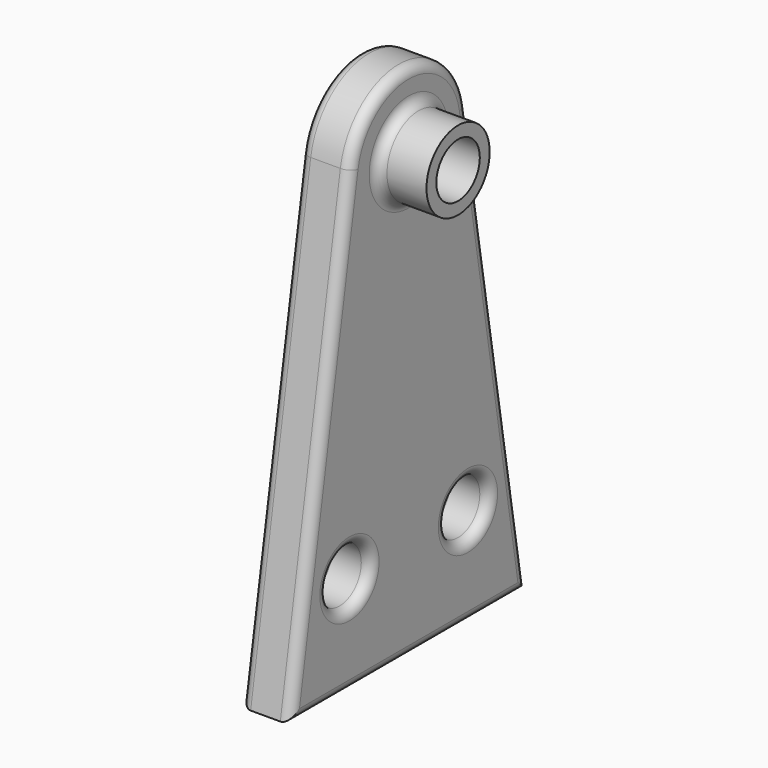
from build123d import *

# Parameters (mm, degrees)
SKETCH_R      = 2.75
PAD_DEPTH     = 5
SKETCH001_R   = 4
SKETCH001_R_2 = 2.75
PAD001_DEPTH  = 5
FILLET_R      = 1
FILLET001_R   = 1


with BuildPart() as part:
    # Sketch → Pad (new body)
    with BuildSketch(Plane.YZ):
        with BuildLine():
            Line((-15, 0), (15, 0))
            Line((15, 0), (7.400623, 46.216874))
            ThreePointArc((7.400623, 46.216874), (0, 52.5), (-7.400623, 46.216874))
            Line((-15, 0), (-7.400623, 46.216874))
        make_face()
        with Locations((0, 45)):
            Circle(SKETCH_R, mode=Mode.SUBTRACT)
        with Locations((-7.5, 10)):
            Circle(SKETCH_R, mode=Mode.SUBTRACT)
        with Locations((7.5, 10)):
            Circle(SKETCH_R, mode=Mode.SUBTRACT)
    extrude(amount=PAD_DEPTH)

    # Sketch001 (on Face9 of Pad) → Pad001 (join)
    with BuildSketch(Plane.YZ.offset(5)):
        with Locations((0, 45)):
            Circle(SKETCH001_R)
        with Locations((0, 45)):
            Circle(SKETCH001_R_2, mode=Mode.SUBTRACT)
    extrude(amount=PAD001_DEPTH)

    # Fillet
    fillet_edges = [part.edges().sort_by_distance(p)[0] for p in [
        (0, 0, 0),
        (0, 11.200311, 23.108437),
        (0, 0, 52.5),
        (0, -11.200311, 23.108437),
        (0, -2.75, 45),
        (0, -10.25, 10),
        (0, 4.75, 10),
    ]]
    fillet(fillet_edges, radius=FILLET_R)

    # Fillet001
    fillet001_edges = [part.edges().sort_by_distance(p)[0] for p in [
        (5, 0, 0),
        (5, -11.200311, 23.108437),
        (5, 11.200311, 23.108437),
        (5, 0, 52.5),
        (5, 4.75, 10),
        (5, -10.25, 10),
        (5, -4, 45),
    ]]
    fillet(fillet001_edges, radius=FILLET001_R)


solid = part.part
